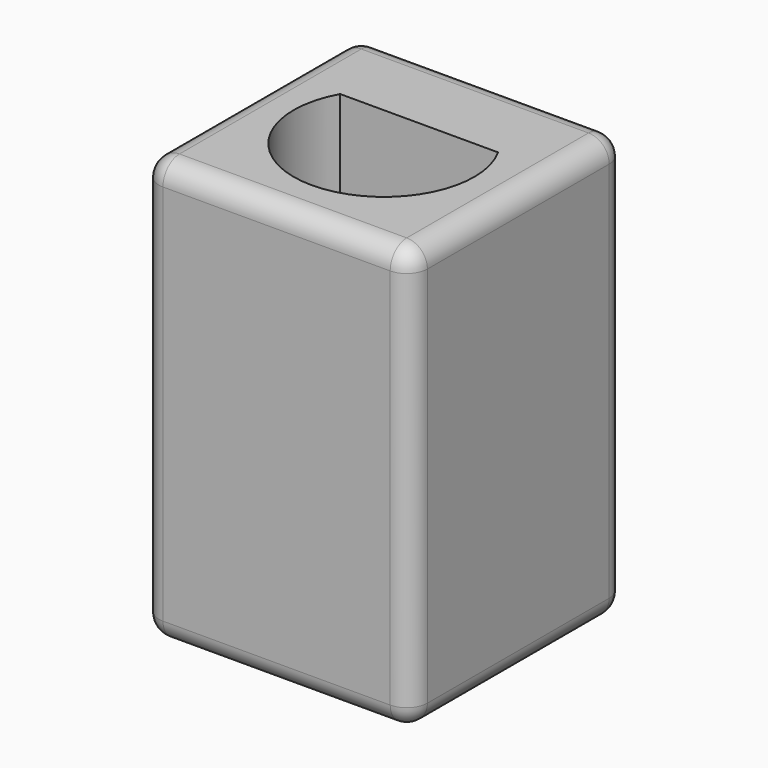
from build123d import *

# Parameters (mm, degrees)
F0_W     = 13
F0_H     = 13
F1_DEPTH = 20.5
F3_DEPTH = 19
F4_R     = 1


with BuildPart() as f1:
    # F0 (on Top) → F1 (new body)
    with BuildSketch(Plane.XY):
        Rectangle(F0_W, F0_H)
    extrude(amount=F1_DEPTH)

    # F2 (on face) → F3 (cut)
    with BuildSketch(Plane.XY.offset(20.5)):
        with BuildLine():
            Line((3.824265, 2.125), (-3.824265, 2.125))
            ThreePointArc((-3.824265, 2.125), (0, -4.375), (3.824265, 2.125))
        make_face()
    extrude(amount=-F3_DEPTH, mode=Mode.SUBTRACT)

    # F4
    f4_edges = [f1.edges().sort_by_distance(p)[0] for p in [
        (-6.5, 6.5, 10.25),
        (-6.5, -6.5, 10.25),
        (6.5, -6.5, 10.25),
        (6.5, 6.5, 10.25),
        (0, 6.5, 0),
        (-6.5, 0, 0),
        (6.5, 0, 0),
        (0, -6.5, 0),
        (0, -6.5, 20.5),
        (6.5, 0, 20.5),
        (0, 6.5, 20.5),
        (-6.5, 0, 20.5),
    ]]
    fillet(f4_edges, radius=F4_R)


solid = f1.part
